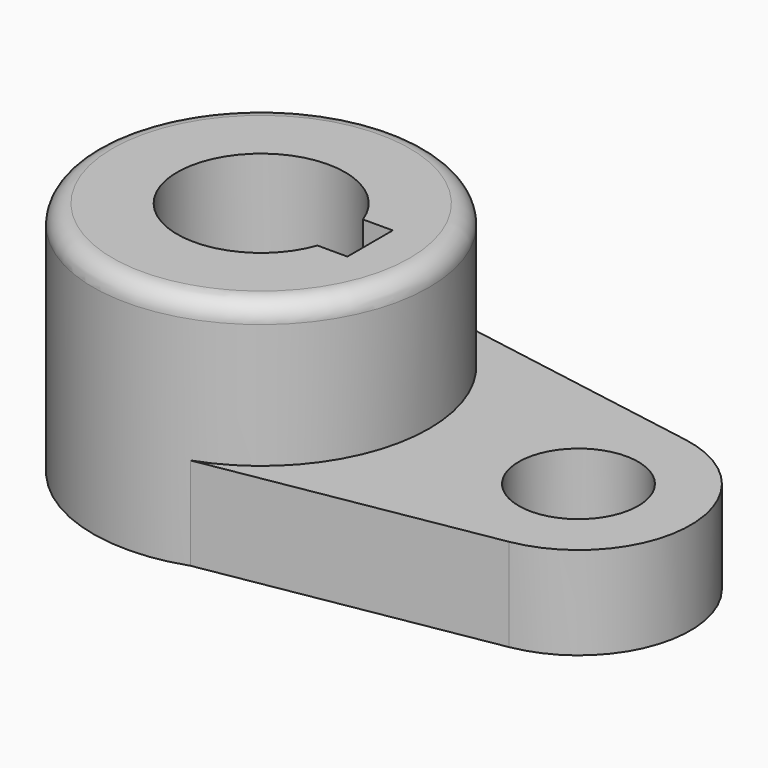
from build123d import *

# Parameters (mm, degrees)
F1_DEPTH = 15.7734
F2_R     = 28.575
F3_DEPTH = 40.2336
F4_R     = 3.302


with BuildPart() as f1:
    # F0 (on Top) → F1 (new body)
    with BuildSketch(Plane.XY):
        with BuildLine():
            ThreePointArc((28.575, 0), (23.3274655355, -16.5033322905), (9.5121844836, -26.9452959039))
            Line((9.5121844836, -26.9452959039), (57.1919272622, -18.7764181619))
            ThreePointArc((57.1919272622, -18.7764181619), (73.025, 0), (57.1919272622, 18.7764181619))
            Line((57.1919272622, 18.7764181619), (9.5121844836, 26.9452959039))
            ThreePointArc((9.5121844836, 26.9452959039), (23.3274655355, 16.5033322905), (28.575, 0))
        make_face()
        with BuildLine():
            ThreePointArc((64.135, 0), (53.975, -10.16), (43.815, 0))
            ThreePointArc((43.815, 0), (53.975, 10.16), (64.135, 0))
        make_face(mode=Mode.SUBTRACT)
    extrude(amount=F1_DEPTH)

    # F2 (on Top) → F3 (join)
    with BuildSketch(Plane.XY):
        Circle(F2_R)
        with BuildLine():
            ThreePointArc((13.4477648793, -4.826), (-14.2874992271, 0.0046994463), (13.4509367064, 4.8171524752))
            Line((13.4509367064, 4.8171524752), (18.5293, 4.8171524752))
            Line((18.5293, 4.8171524752), (18.5293, 0))
            Line((18.5293, 0), (18.5293, -4.826))
            Line((18.5293, -4.826), (13.4477648793, -4.826))
        make_face(mode=Mode.SUBTRACT)
    extrude(amount=F3_DEPTH)

    # F4
    f4_edges = [f1.edges().sort_by_distance(p)[0] for p in [
        (-28.575, 0, 40.2336),
    ]]
    fillet(f4_edges, radius=F4_R)


solid = f1.part
